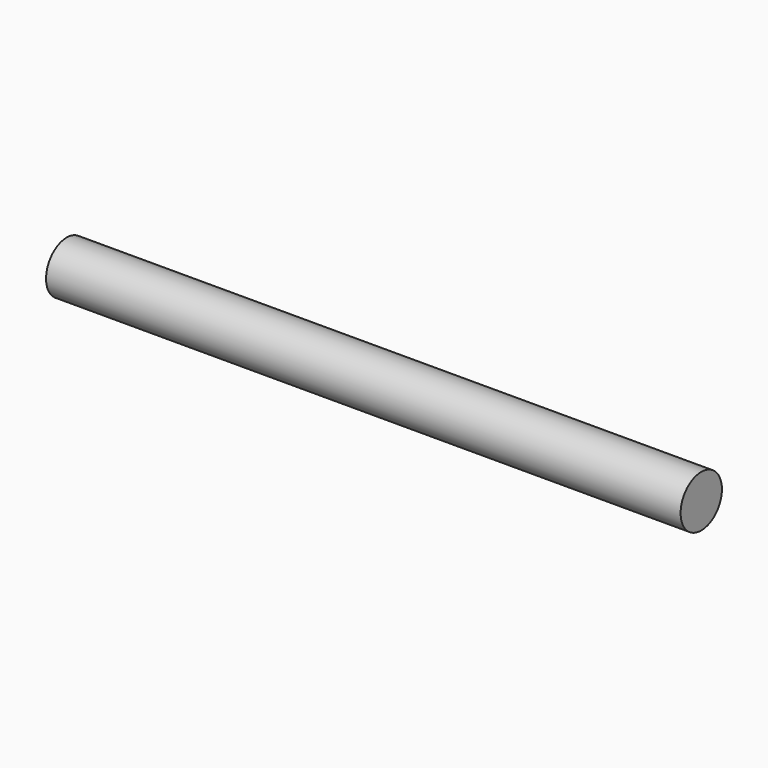
from build123d import *

# Parameters (mm, degrees)
F0_R     = 14.351
F1_DEPTH = 176.276
F2_R     = 3.175
F3_DEPTH = 304.8


with BuildPart() as f1:
    # F0 (on Right) → F1 (new body, symmetric)
    with BuildSketch(Plane.YZ):
        Circle(F0_R)
    extrude(amount=F1_DEPTH, both=True)

    # F2 (on face) → F3 (cut)
    with BuildSketch(Plane(origin=(-176.276, 0, 0), x_dir=(0, -1, 0), z_dir=(-1, 0, 0))):
        with Locations((0, -9.652)):
            Circle(F2_R)
    extrude(amount=-F3_DEPTH, mode=Mode.SUBTRACT)


solid = f1.part
